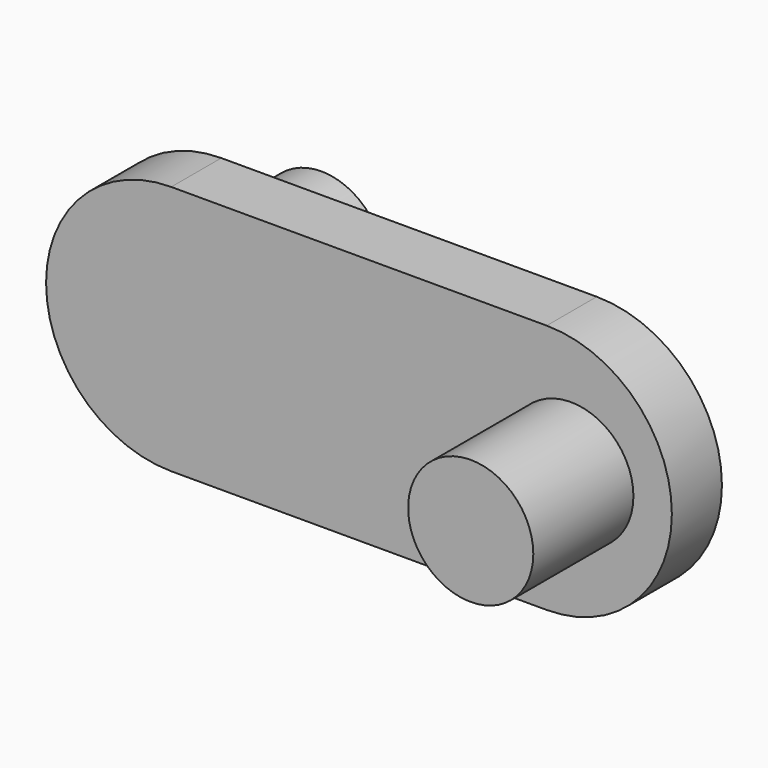
from build123d import *

# Parameters (mm, degrees)
F0_R     = 5
F1_DEPTH = 5
F2_R     = 5
F3_DEPTH = 10
F4_R     = 5
F5_DEPTH = 10


with BuildPart() as f1:
    # F0 (on Front) → F1 (new body)
    with BuildSketch(Plane.XZ):
        with BuildLine():
            Line((30, 20), (0, 20))
            ThreePointArc((0, 20), (-10, 10), (0, 0))
            Line((0, 0), (30, 0))
            ThreePointArc((30, 0), (40, 10), (30, 20))
        make_face()
        with Locations((0, 10)):
            Circle(F0_R, mode=Mode.SUBTRACT)
        with Locations((30, 10)):
            Circle(F0_R, mode=Mode.SUBTRACT)
        with Locations((0, 10)):
            Circle(F0_R)
        with Locations((30, 10)):
            Circle(F0_R)
    extrude(amount=F1_DEPTH)

    # F2 (on face) → F3 (join)
    with BuildSketch(Plane(origin=(0, 0, 0), x_dir=(-1, 0, 0), z_dir=(0, 1, 0))):
        with Locations((0, 10)):
            Circle(F2_R)
    extrude(amount=F3_DEPTH)

    # F4 (on face) → F5 (join)
    with BuildSketch(Plane.XZ.offset(5)):
        with Locations((31.928506, 10.253408)):
            Circle(F4_R)
    extrude(amount=F5_DEPTH)


solid = f1.part
